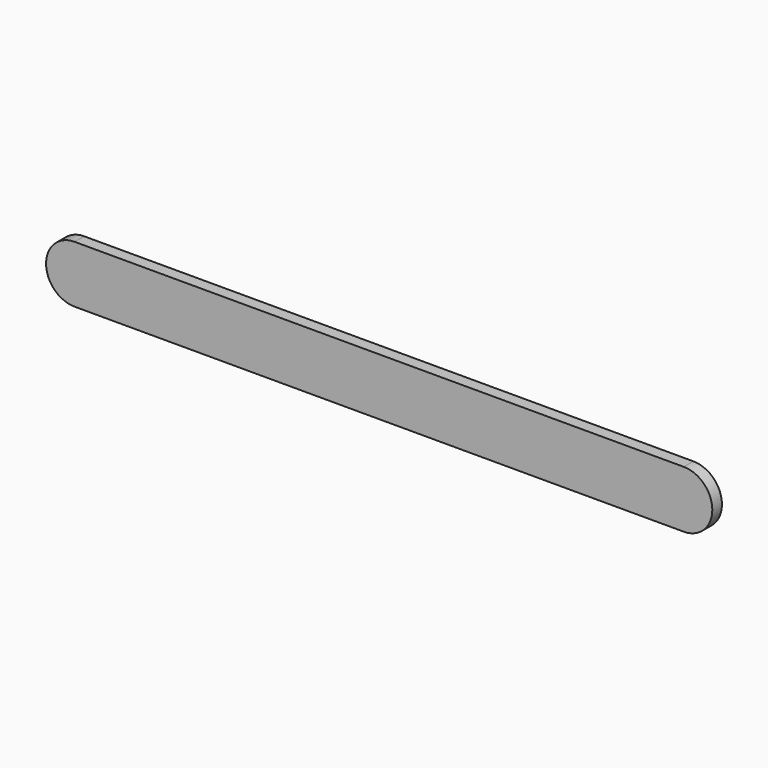
from build123d import *

# Parameters (mm, degrees)
F0_W     = 101.6
F0_H     = 9.525
F1_DEPTH = 2


with BuildPart() as f1:
    # F0 (on Front) → F1 (new body)
    with BuildSketch(Plane.XZ):
        with Locations((-10.530757, -4.061578)):
            Rectangle(F0_W, F0_H)
        with BuildLine():
            Line((-61.330757, -8.824078), (-61.330757, 0.700922))
            ThreePointArc((-61.330757, 0.700922), (-66.093257, -4.061578), (-61.330757, -8.824078))
        make_face()
        with BuildLine():
            ThreePointArc((40.269243, -8.824078), (45.031743, -4.061578), (40.269243, 0.700922))
            Line((40.269243, 0.700922), (40.269243, -8.824078))
        make_face()
    extrude(amount=F1_DEPTH)


solid = f1.part
